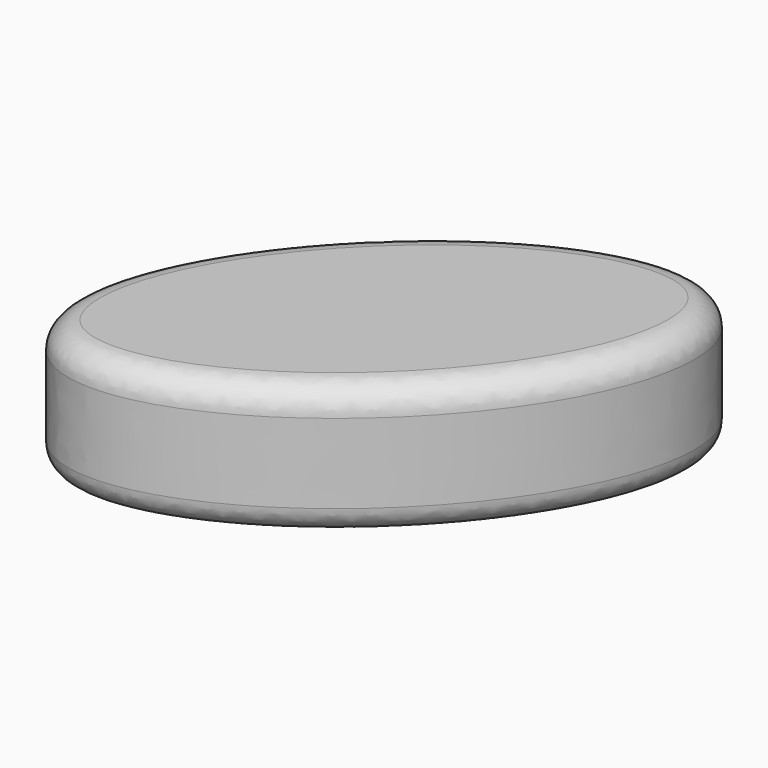
from build123d import *

# Parameters (mm, degrees)
F1_DEPTH = 25.4
F2_R     = 5.08


with BuildPart() as f1:
    # F0 (on Top) → F1 (new body)
    with BuildSketch(Plane.XY):
        with BuildLine():
            add(Edge.make_bspline(
                [(-17.743547, 18.253418), (-80.835517, -43.07621), (-22.674212, -39.791523), (35.487093, -36.506836), (40.417759, 21.538105), (45.348424, 79.583046), (-17.743547, 18.253418)],
                knots=[4.712389, 4.712389, 4.712389, 6.806784, 6.806784, 8.901179, 8.901179, 10.995574, 10.995574, 10.995574], degree=2, weights=[1, 0.5, 1, 0.5, 1, 0.5, 1]))
        make_face()
    extrude(amount=F1_DEPTH)

    # F2
    f2_edges = [f1.edges().sort_by_distance(p)[0] for p in [
        (17.743547, -18.253418, 25.4),
        (17.743547, -18.253418, 0),
    ]]
    fillet(f2_edges, radius=F2_R)


solid = f1.part
